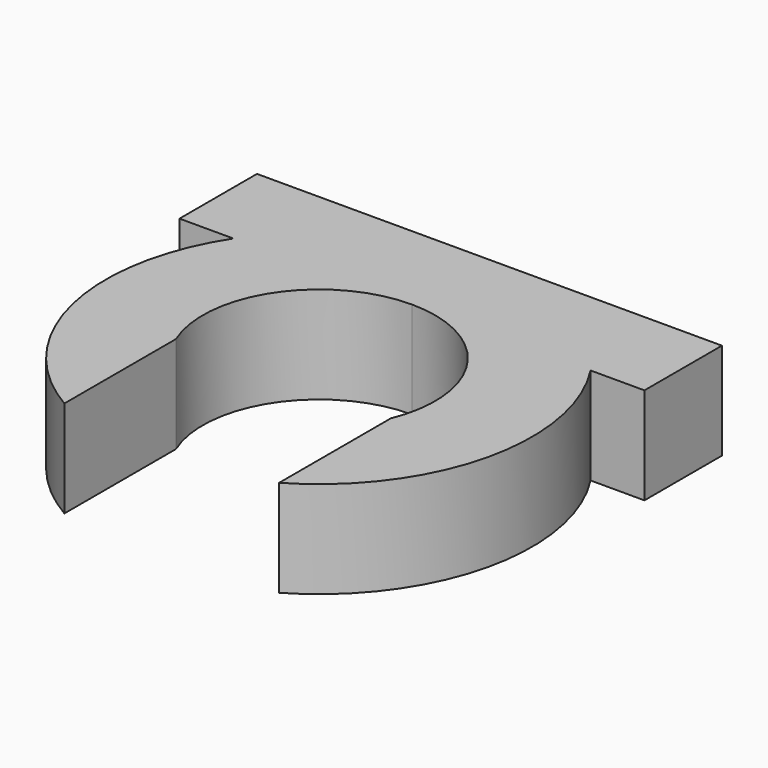
from build123d import *

# Parameters (mm, degrees)
F1_DEPTH = 5


with BuildPart() as f1:
    # F0 (on Top) → F1 (new body)
    with BuildSketch(Plane.XY):
        with BuildLine():
            ThreePointArc((1.28e-08, 6), (4.9888176774, 3.3334213928), (5.5432771951, -2.2961005942))
            Line((5.5432771951, -2.2961005942), (5.5432771951, -9.5011619257))
            ThreePointArc((5.5432771951, -9.5011619257), (10.703117819, -2.5383595004), (9.2195444573, 6))
            Line((9.2195444573, 6), (1.28e-08, 6))
        make_face()
        with BuildLine():
            ThreePointArc((-5.5432771951, -2.2961005942), (-4.9888176703, 3.3334214034), (1.28e-08, 6))
            Line((1.28e-08, 6), (-9.2195444573, 6))
            ThreePointArc((-9.2195444573, 6), (-10.703117819, -2.5383595004), (-5.5432771951, -9.5011619257))
            Line((-5.5432771951, -9.5011619257), (-5.5432771951, -2.2961005942))
        make_face()
        with BuildLine():
            Line((-9.2195444573, 6), (1.28e-08, 6))
            Line((1.28e-08, 6), (9.2195444573, 6))
            ThreePointArc((9.2195444573, 6), (5.2440442409, 9.6695398029), (0, 11))
            ThreePointArc((0, 11), (-5.2440442409, 9.6695398029), (-9.2195444573, 6))
        make_face()
        with BuildLine():
            Line((-12, 6), (-9.2195444573, 6))
            ThreePointArc((-9.2195444573, 6), (-5.2440442409, 9.6695398029), (0, 11))
            Line((0, 11), (-12, 11))
            Line((-12, 11), (-12, 6))
        make_face()
        with BuildLine():
            ThreePointArc((0, 11), (5.2440442409, 9.6695398029), (9.2195444573, 6))
            Line((9.2195444573, 6), (12, 6))
            Line((12, 6), (12, 11))
            Line((12, 11), (0, 11))
        make_face()
    extrude(amount=F1_DEPTH)


solid = f1.part
